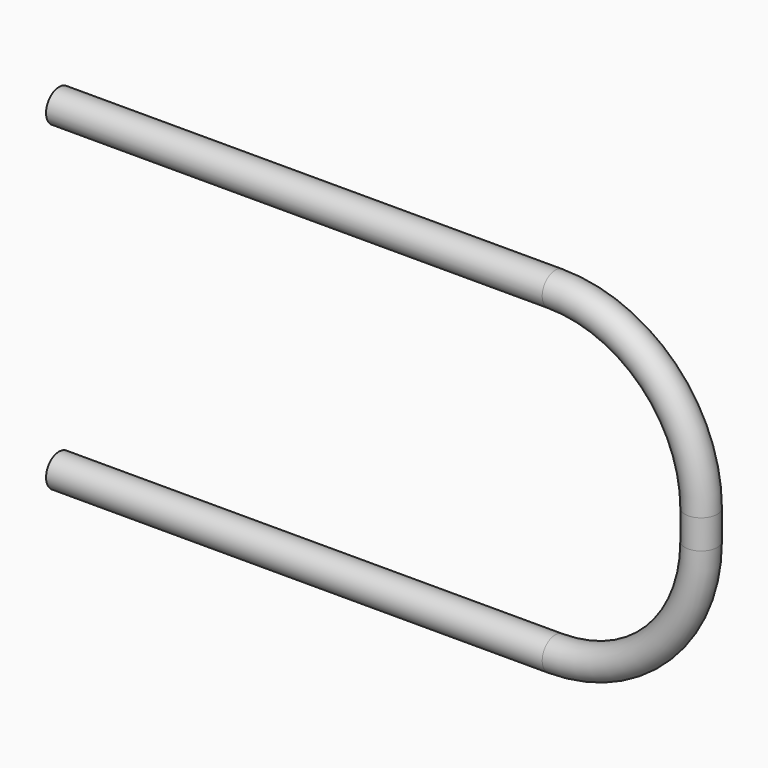
from build123d import *

# Parameters (mm, degrees)
F1_R   = 16.7
F1_R_2 = 13.932


with BuildPart() as f2:
    # F2: sweep along a path in F0
    with BuildLine(Plane.XZ) as f2_path:
        Line((0, 0), (510, 0))
        ThreePointArc((510, 0), (616.066017, -43.933983), (660, -150))
        Line((660, -150), (660, -180))
        ThreePointArc((660, -180), (616.066017, -286.066017), (510, -330))
        Line((510, -330), (0, -330))
    # F1 (on Right) → F2 (sweep)
    with BuildSketch(Plane.YZ):
        Circle(F1_R)
        Circle(F1_R_2, mode=Mode.SUBTRACT)
    sweep(path=f2_path.line)


solid = f2.part
